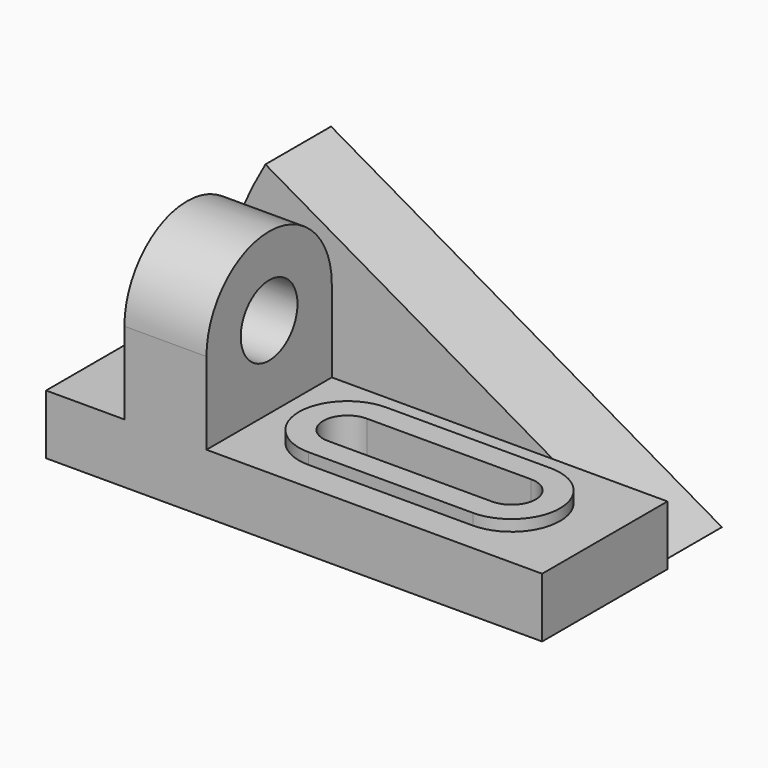
from build123d import *

# Parameters (mm, degrees)
F0_W      = 133
F0_H      = 16
F1_DEPTH  = 42
F2_W      = 22
F2_H      = 42
F3_DEPTH  = 22
F4_DEPTH  = 16.001
F5_DEPTH  = 3
F6_R      = 9.5
F7_DEPTH  = 22
F8_DEPTH  = 43.001
F10_DEPTH = 22


with BuildPart() as f1:
    # F0 (on Front) → F1 (new body)
    with BuildSketch(Plane.XZ):
        with Locations((66.5, 8)):
            Rectangle(F0_W, F0_H)
    extrude(amount=F1_DEPTH)

    # F2 (on face) → F3 (join)
    with BuildSketch(Plane.XY.offset(16)):
        with Locations((32, -21)):
            Rectangle(F2_W, F2_H)
    extrude(amount=F3_DEPTH)

    # F2 (on face) → F4 (cut, through all)
    with BuildSketch(Plane.XY.offset(16)):
        with BuildLine():
            ThreePointArc((64, -14.5), (57.5, -21), (64, -27.5))
            Line((64, -27.5), (108, -27.5))
            ThreePointArc((108, -27.5), (114.5, -21), (108, -14.5))
            Line((108, -14.5), (64, -14.5))
        make_face()
    extrude(amount=-F4_DEPTH, mode=Mode.SUBTRACT)

    # F2 (on face) → F5 (join)
    with BuildSketch(Plane.XY.offset(16)):
        with BuildLine():
            ThreePointArc((64, -8), (51, -21), (64, -34))
            Line((64, -34), (108, -34))
            ThreePointArc((108, -34), (121, -21), (108, -8))
            Line((108, -8), (64, -8))
        make_face()
        with BuildLine():
            Line((108, -27.5), (64, -27.5))
            ThreePointArc((64, -27.5), (57.5, -21), (64, -14.5))
            Line((64, -14.5), (108, -14.5))
            ThreePointArc((108, -14.5), (114.5, -21), (108, -27.5))
        make_face(mode=Mode.SUBTRACT)
    extrude(amount=F5_DEPTH)

    # F6 (on face) → F7 (join)
    with BuildSketch(Plane.YZ.offset(43)):
        with Locations((-21, 38)):
            Circle(F6_R)
        with BuildLine():
            Line((-11.5, 38), (0, 38))
            ThreePointArc((0, 38), (-21, 59), (-42, 38))
            Line((-42, 38), (-30.5, 38))
            ThreePointArc((-30.5, 38), (-21, 47.5), (-11.5, 38))
        make_face()
    extrude(amount=-F7_DEPTH)

    # F6 (on face) → F8 (cut, through all)
    with BuildSketch(Plane.YZ.offset(43)):
        with Locations((-21, 38)):
            Circle(F6_R)
    extrude(amount=-F8_DEPTH, mode=Mode.SUBTRACT)

    # F9 (on Front) → F10 (join)
    with BuildSketch(Plane.XZ):
        with BuildLine():
            ThreePointArc((25.210926, 60.5), (13.122975, 31.317104), (9, 0))
            Line((9, 0), (130, 0))
            Line((130, 0), (25.210926, 60.5))
        make_face()
    extrude(amount=-F10_DEPTH)


solid = f1.part
